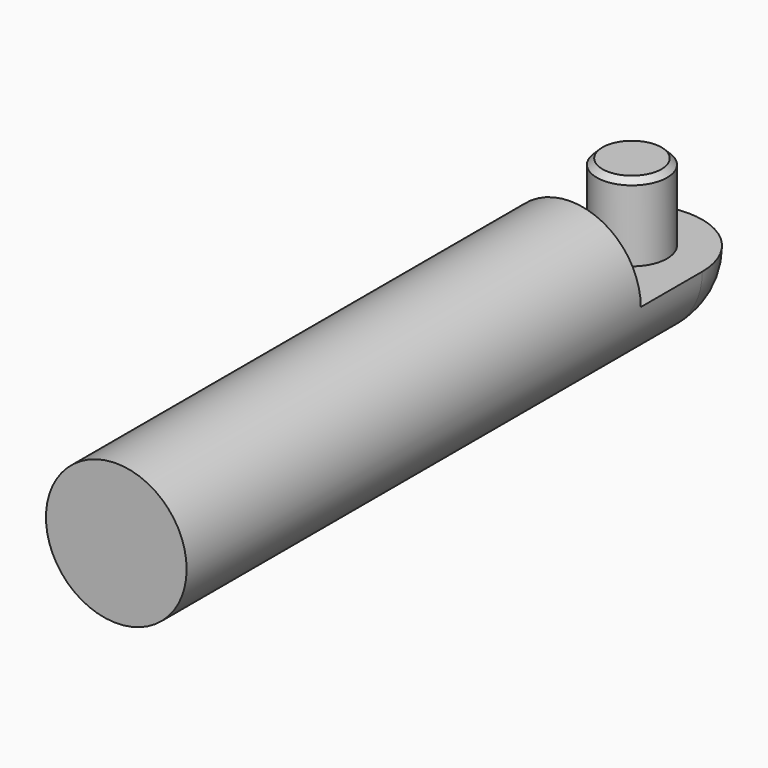
from build123d import *

# Parameters (mm, degrees)
F0_R     = 19.05
F1_DEPTH = 174.57928
F4_DEPTH = 20.828
F5_R     = 9.525
F6_DEPTH = 20.828
F7_SIZE2 = 1.524
F7_SIZE  = 1.524


with BuildPart() as f1:
    # F0 (on Front) → F1 (new body)
    with BuildSketch(Plane.XZ):
        Circle(F0_R)
    extrude(amount=F1_DEPTH)

    # F2 (on face) → F3 (revolve)
    with BuildSketch(Plane(origin=(0, 0, 0), x_dir=(-1, 0, 0), z_dir=(0, 1, 0))):
        with BuildLine():
            Line((19.05, 0), (0, 0))
            Line((0, 0), (0, -19.05))
            ThreePointArc((0, -19.05), (13.4703841816, -13.4703841816), (19.05, 0))
        make_face()
    revolve(axis=Axis((0, 0, -2.0931214094), (0, 0, -1)))

    # F4 (cut): a face of the model
    f4_faces = [f1.faces().sort_by_distance(p)[0] for p in [
        (0, 0, 8.0850711091),
    ]]
    extrude(f4_faces, amount=-F4_DEPTH, mode=Mode.SUBTRACT)

    # F5 (on face) → F6 (join)
    with BuildSketch(Plane.XY):
        Circle(F5_R)
    extrude(amount=F6_DEPTH)

    # F7
    f7_edges = [f1.edges().sort_by_distance(p)[0] for p in [
        (-9.525, 0, 20.828),
    ]]
    chamfer(f7_edges, length=F7_SIZE, length2=F7_SIZE2)


solid = f1.part
